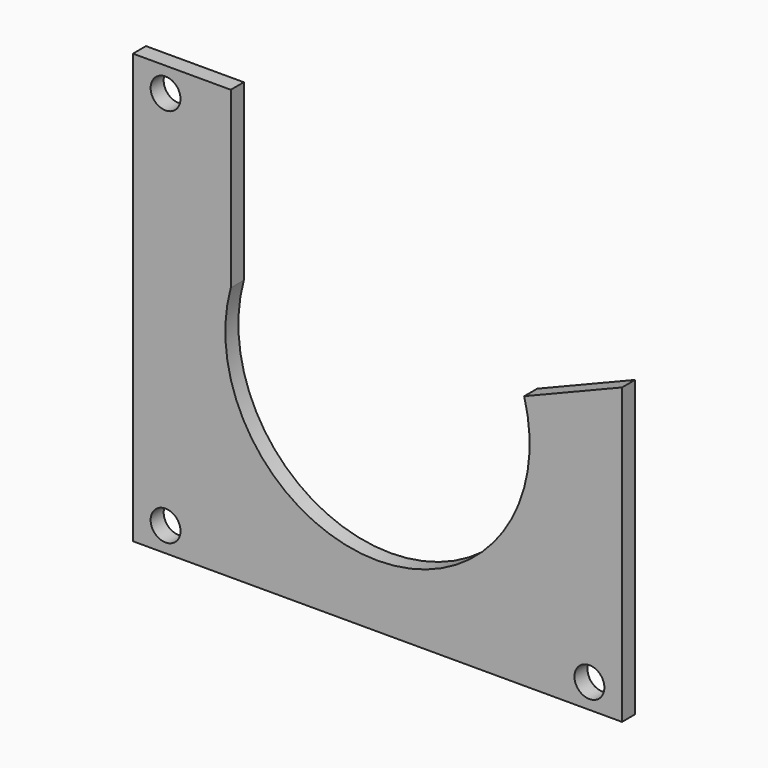
from build123d import *

# Parameters (mm, degrees)
F0_R     = 2.75
F1_DEPTH = 3


with BuildPart() as f1:
    # F0 (on Front) → F1 (new body)
    with BuildSketch(Plane.XZ):
        with BuildLine():
            Line((-27, 39.5), (-45, 39.5))
            Line((-45, 39.5), (-45, -39.5))
            Line((-45, -39.5), (45, -39.5))
            Line((45, -39.5), (45, 14.688671))
            Line((45, 14.688671), (27, 7.416198))
            ThreePointArc((27, 7.416198), (0, -28), (-27, 7.416198))
            Line((-27, 7.416198), (-27, 39.5))
        make_face()
        with Locations((-39, -35)):
            Circle(F0_R, mode=Mode.SUBTRACT)
        with Locations((39, -35)):
            Circle(F0_R, mode=Mode.SUBTRACT)
        with Locations((-39, 35)):
            Circle(F0_R, mode=Mode.SUBTRACT)
    extrude(amount=F1_DEPTH)


solid = f1.part
